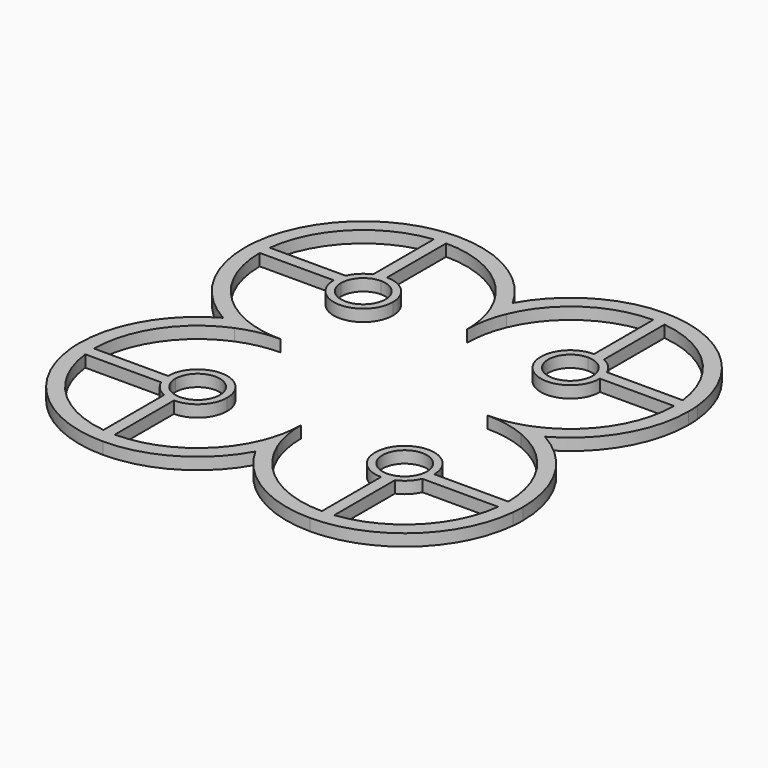
from build123d import *

# Parameters (mm, degrees)
F1_DEPTH = 2


with BuildPart() as f1:
    # F0 (on Top) → F1 (new body)
    with BuildSketch(Plane.XY):
        with BuildLine():
            ThreePointArc((-17.5, 35), (-7.785309692, 32.0559194907), (-1.3392857143, 24.214261968))
            ThreePointArc((-1.3392857143, 24.214261968), (-0.7301527426, 25.7256629508), (0, 27.1824583655))
            ThreePointArc((0, 27.1824583655), (-7.3424699683, 34.7285978436), (-17.5, 37.5))
            Line((-17.5, 37.5), (-17.5, 35))
        make_face()
        with BuildLine():
            ThreePointArc((-35, -17.5), (-32.0559194907, -7.785309692), (-24.214261968, -1.3392857143))
            ThreePointArc((-24.214261968, -1.3392857143), (-25.7256629508, -0.7301527426), (-27.1824583655, 0))
            ThreePointArc((-27.1824583655, 0), (-34.7285978436, -7.3424699683), (-37.5, -17.5))
            Line((-37.5, -17.5), (-35, -17.5))
        make_face()
        with BuildLine():
            ThreePointArc((27.1824583655, 0), (25.7256629508, -0.7301527426), (24.214261968, -1.3392857143))
            ThreePointArc((24.214261968, -1.3392857143), (32.0559194907, -7.785309692), (35, -17.5))
            Line((35, -17.5), (37.5, -17.5))
            ThreePointArc((37.5, -17.5), (34.7285978436, -7.3424699683), (27.1824583655, 0))
        make_face()
        with BuildLine():
            ThreePointArc((0, 27.1824583655), (0.7301527426, 25.7256629508), (1.3392857143, 24.214261968))
            ThreePointArc((1.3392857143, 24.214261968), (7.785309692, 32.0559194907), (17.5, 35))
            Line((17.5, 35), (17.5, 37.5))
            ThreePointArc((17.5, 37.5), (7.3424699683, 34.7285978436), (0, 27.1824583655))
        make_face()
        with BuildLine():
            ThreePointArc((24.214261968, 1.3392857143), (20.9232660165, 0.3380872342), (17.5000000654, 0))
            ThreePointArc((17.5000000654, 0), (20.9232660165, -0.3380872342), (24.214261968, -1.3392857143))
            ThreePointArc((24.214261968, -1.3392857143), (25.7256629508, -0.7301527426), (27.1824583655, 0))
            ThreePointArc((27.1824583655, 0), (25.7256629508, 0.7301527426), (24.214261968, 1.3392857143))
        make_face()
        with BuildLine():
            ThreePointArc((1.3392857143, -24.214261968), (0.3380872278, -20.9232659844), (0, -17.5))
            ThreePointArc((0, -17.5), (-0.3380872278, -20.9232659844), (-1.3392857143, -24.214261968))
            ThreePointArc((-1.3392857143, -24.214261968), (-0.7301527426, -25.7256629508), (0, -27.1824583655))
            ThreePointArc((0, -27.1824583655), (0.7301527426, -25.7256629508), (1.3392857143, -24.214261968))
        make_face()
        with BuildLine():
            ThreePointArc((-24.214261968, -1.3392857143), (-20.9232659844, -0.3380872278), (-17.5, 0))
            ThreePointArc((-17.5, 0), (-20.9232659844, 0.3380872278), (-24.214261968, 1.3392857143))
            ThreePointArc((-24.214261968, 1.3392857143), (-25.7256629508, 0.7301527426), (-27.1824583655, 0))
            ThreePointArc((-27.1824583655, 0), (-25.7256629508, -0.7301527426), (-24.214261968, -1.3392857143))
        make_face()
        with BuildLine():
            ThreePointArc((-1.3392857143, 24.214261968), (-0.3380872278, 20.9232659844), (0, 17.5))
            ThreePointArc((0, 17.5), (0.3380872278, 20.9232659844), (1.3392857143, 24.214261968))
            ThreePointArc((1.3392857143, 24.214261968), (0.7301527426, 25.7256629508), (0, 27.1824583655))
            ThreePointArc((0, 27.1824583655), (-0.7301527426, 25.7256629508), (-1.3392857143, 24.214261968))
        make_face()
        with BuildLine():
            ThreePointArc((-27.1824583655, 0), (-25.7256629508, 0.7301527426), (-24.214261968, 1.3392857143))
            ThreePointArc((-24.214261968, 1.3392857143), (-32.0559194907, 7.785309692), (-35, 17.5))
            Line((-35, 17.5), (-37.5, 17.5))
            ThreePointArc((-37.5, 17.5), (-34.7285978436, 7.3424699683), (-27.1824583655, 0))
        make_face()
        with BuildLine():
            ThreePointArc((-34.8853386507, 19.5), (-29.8743686708, 29.8743686708), (-19.5, 34.8853386507))
            Line((-19.5, 34.8853386507), (-19.5, 36.718895694))
            Line((-19.5, 36.718895694), (-23.0348033662, 36.718895694))
            ThreePointArc((-23.0348033662, 36.718895694), (-32.8574640637, 30.3120372124), (-37.3997487421, 19.5))
            Line((-37.3997487421, 19.5), (-34.8853386507, 19.5))
        make_face()
        with BuildLine():
            ThreePointArc((-35, 17.5), (-34.971311147, 18.501642055), (-34.8853386507, 19.5))
            Line((-34.8853386507, 19.5), (-37.3997487421, 19.5))
            ThreePointArc((-37.3997487421, 19.5), (-37.4749214622, 18.5012555012), (-37.5, 17.5))
            Line((-37.5, 17.5), (-35, 17.5))
        make_face()
        with BuildLine():
            Line((-22.082575695, 19.5), (-34.8853386507, 19.5))
            ThreePointArc((-34.8853386507, 19.5), (-34.971311147, 18.501642055), (-35, 17.5))
            Line((-35, 17.5), (-22.5, 17.5))
            ThreePointArc((-22.5, 17.5), (-22.3945315647, 18.5215482184), (-22.082575695, 19.5))
        make_face()
        with BuildLine():
            Line((-17.5, 21.25), (-17.5, 22.5))
            ThreePointArc((-17.5, 22.5), (-18.5215482184, 22.3945315647), (-19.5, 22.082575695))
            ThreePointArc((-19.5, 22.082575695), (-21.0355339059, 21.0355339059), (-22.082575695, 19.5))
            ThreePointArc((-22.082575695, 19.5), (-22.3945315647, 18.5215482184), (-22.5, 17.5))
            Line((-22.5, 17.5), (-21.25, 17.5))
            ThreePointArc((-21.25, 17.5), (-20.1516504294, 20.1516504294), (-17.5, 21.25))
        make_face()
        with BuildLine():
            Line((-17.5, 22.5), (-17.5, 35))
            ThreePointArc((-17.5, 35), (-18.501642055, 34.971311147), (-19.5, 34.8853386507))
            Line((-19.5, 34.8853386507), (-19.5, 22.082575695))
            ThreePointArc((-19.5, 22.082575695), (-18.5215482184, 22.3945315647), (-17.5, 22.5))
        make_face()
        with BuildLine():
            ThreePointArc((-12.5, 17.5), (-13.9644660941, 21.0355339059), (-17.5, 22.5))
            Line((-17.5, 22.5), (-17.5, 21.25))
            ThreePointArc((-17.5, 21.25), (-14.8483495706, 20.1516504294), (-13.75, 17.5))
            ThreePointArc((-13.75, 17.5), (-17.5, 13.75), (-21.25, 17.5))
            Line((-21.25, 17.5), (-22.5, 17.5))
            ThreePointArc((-22.5, 17.5), (-17.5, 12.5), (-12.5, 17.5))
        make_face()
        with BuildLine():
            ThreePointArc((-19.5, 34.8853386507), (-18.501642055, 34.971311147), (-17.5, 35))
            Line((-17.5, 35), (-17.5, 37.5))
            ThreePointArc((-17.5, 37.5), (-20.2948243343, 37.3037611817), (-23.0348033662, 36.718895694))
            Line((-23.0348033662, 36.718895694), (-19.5, 36.718895694))
            Line((-19.5, 36.718895694), (-19.5, 34.8853386507))
        make_face()
        with BuildLine():
            ThreePointArc((-34.8853386507, -19.5), (-34.971311147, -18.501642055), (-35, -17.5))
            Line((-35, -17.5), (-37.5, -17.5))
            ThreePointArc((-37.5, -17.5), (-37.4749214622, -18.5012555012), (-37.3997487421, -19.5))
            Line((-37.3997487421, -19.5), (-34.8853386507, -19.5))
        make_face()
        with BuildLine():
            Line((-22.5, -17.5), (-35, -17.5))
            ThreePointArc((-35, -17.5), (-34.971311147, -18.501642055), (-34.8853386507, -19.5))
            Line((-34.8853386507, -19.5), (-22.082575695, -19.5))
            ThreePointArc((-22.082575695, -19.5), (-22.3945315647, -18.5215482184), (-22.5, -17.5))
        make_face()
        with BuildLine():
            ThreePointArc((-19.5, -34.8853386507), (-29.8743686708, -29.8743686708), (-34.8853386507, -19.5))
            Line((-34.8853386507, -19.5), (-37.3997487421, -19.5))
            ThreePointArc((-37.3997487421, -19.5), (-30.916407865, -32.3323969742), (-17.5, -37.5))
            Line((-17.5, -37.5), (-17.5, -35))
            ThreePointArc((-17.5, -35), (-18.501642055, -34.971311147), (-19.5, -34.8853386507))
        make_face()
        with BuildLine():
            Line((-21.25, -17.5), (-22.5, -17.5))
            ThreePointArc((-22.5, -17.5), (-22.3945315647, -18.5215482184), (-22.082575695, -19.5))
            ThreePointArc((-22.082575695, -19.5), (-21.0355339059, -21.0355339059), (-19.5, -22.082575695))
            ThreePointArc((-19.5, -22.082575695), (-18.5215482184, -22.3945315647), (-17.5, -22.5))
            Line((-17.5, -22.5), (-17.5, -21.25))
            ThreePointArc((-17.5, -21.25), (-20.1516504294, -20.1516504294), (-21.25, -17.5))
        make_face()
        with BuildLine():
            ThreePointArc((-19.5, -34.8853386507), (-18.501642055, -34.971311147), (-17.5, -35))
            Line((-17.5, -35), (-17.5, -22.5))
            ThreePointArc((-17.5, -22.5), (-18.5215482184, -22.3945315647), (-19.5, -22.082575695))
            Line((-19.5, -22.082575695), (-19.5, -34.8853386507))
        make_face()
        with BuildLine():
            ThreePointArc((-12.5, -17.5), (-17.5, -12.5), (-22.5, -17.5))
            Line((-22.5, -17.5), (-21.25, -17.5))
            ThreePointArc((-21.25, -17.5), (-17.5, -13.75), (-13.75, -17.5))
            ThreePointArc((-13.75, -17.5), (-14.8483495706, -20.1516504294), (-17.5, -21.25))
            Line((-17.5, -21.25), (-17.5, -22.5))
            ThreePointArc((-17.5, -22.5), (-13.9644660941, -21.0355339059), (-12.5, -17.5))
        make_face()
        with BuildLine():
            ThreePointArc((0, -27.1824583655), (-0.7301527426, -25.7256629508), (-1.3392857143, -24.214261968))
            ThreePointArc((-1.3392857143, -24.214261968), (-7.785309692, -32.0559194907), (-17.5, -35))
            Line((-17.5, -35), (-17.5, -37.5))
            ThreePointArc((-17.5, -37.5), (-7.3424699683, -34.7285978436), (0, -27.1824583655))
        make_face()
        with BuildLine():
            ThreePointArc((17.5, -35), (7.785309692, -32.0559194907), (1.3392857143, -24.214261968))
            ThreePointArc((1.3392857143, -24.214261968), (0.7301527426, -25.7256629508), (0, -27.1824583655))
            ThreePointArc((0, -27.1824583655), (7.3424699683, -34.7285978436), (17.5, -37.5))
            Line((17.5, -37.5), (17.5, -35))
        make_face()
        with BuildLine():
            Line((37.3997487421, -19.5), (34.8853386507, -19.5))
            ThreePointArc((34.8853386507, -19.5), (29.8743686708, -29.8743686708), (19.5, -34.8853386507))
            ThreePointArc((19.5, -34.8853386507), (18.501642055, -34.971311147), (17.5, -35))
            Line((17.5, -35), (17.5, -37.5))
            ThreePointArc((17.5, -37.5), (30.916407865, -32.3323969742), (37.3997487421, -19.5))
        make_face()
        with BuildLine():
            Line((37.5, -17.5), (35, -17.5))
            ThreePointArc((35, -17.5), (34.971311147, -18.501642055), (34.8853386507, -19.5))
            Line((34.8853386507, -19.5), (37.3997487421, -19.5))
            ThreePointArc((37.3997487421, -19.5), (37.4749214622, -18.5012555012), (37.5, -17.5))
        make_face()
        with BuildLine():
            ThreePointArc((34.8853386507, -19.5), (34.971311147, -18.501642055), (35, -17.5))
            Line((35, -17.5), (22.5, -17.5))
            ThreePointArc((22.5, -17.5), (22.3945315647, -18.5215482184), (22.082575695, -19.5))
            Line((22.082575695, -19.5), (34.8853386507, -19.5))
        make_face()
        with BuildLine():
            ThreePointArc((17.5, -35), (18.501642055, -34.971311147), (19.5, -34.8853386507))
            Line((19.5, -34.8853386507), (19.5, -22.082575695))
            ThreePointArc((19.5, -22.082575695), (18.5215482184, -22.3945315647), (17.5, -22.5))
            Line((17.5, -22.5), (17.5, -35))
        make_face()
        with BuildLine():
            ThreePointArc((22.082575695, -19.5), (22.3945315647, -18.5215482184), (22.5, -17.5))
            Line((22.5, -17.5), (21.25, -17.5))
            ThreePointArc((21.25, -17.5), (20.1516504294, -20.1516504294), (17.5, -21.25))
            Line((17.5, -21.25), (17.5, -22.5))
            ThreePointArc((17.5, -22.5), (18.5215482184, -22.3945315647), (19.5, -22.082575695))
            ThreePointArc((19.5, -22.082575695), (21.0355339059, -21.0355339059), (22.082575695, -19.5))
        make_face()
        with BuildLine():
            Line((21.25, -17.5), (22.5, -17.5))
            ThreePointArc((22.5, -17.5), (13.9644660941, -13.9644660941), (17.5, -22.5))
            Line((17.5, -22.5), (17.5, -21.25))
            ThreePointArc((17.5, -21.25), (14.8483495706, -14.8483495706), (21.25, -17.5))
        make_face()
        with BuildLine():
            ThreePointArc((19.5, 34.8853386507), (18.501642055, 34.971311147), (17.5, 35))
            Line((17.5, 35), (17.5, 22.5))
            ThreePointArc((17.5, 22.5), (18.5215482184, 22.3945315647), (19.5, 22.082575695))
            Line((19.5, 22.082575695), (19.5, 34.8853386507))
        make_face()
        with BuildLine():
            ThreePointArc((19.5, 22.082575695), (18.5215482184, 22.3945315647), (17.5, 22.5))
            Line((17.5, 22.5), (17.5, 21.25))
            ThreePointArc((17.5, 21.25), (20.1516504294, 20.1516504294), (21.25, 17.5))
            Line((21.25, 17.5), (22.5, 17.5))
            ThreePointArc((22.5, 17.5), (22.3945315647, 18.5215482184), (22.082575695, 19.5))
            ThreePointArc((22.082575695, 19.5), (21.0355339059, 21.0355339059), (19.5, 22.082575695))
        make_face()
        with BuildLine():
            ThreePointArc((35, 17.5), (34.971311147, 18.501642055), (34.8853386507, 19.5))
            Line((34.8853386507, 19.5), (22.082575695, 19.5))
            ThreePointArc((22.082575695, 19.5), (22.3945315647, 18.5215482184), (22.5, 17.5))
            Line((22.5, 17.5), (35, 17.5))
        make_face()
        with BuildLine():
            Line((17.5, 37.5), (17.5, 35))
            ThreePointArc((17.5, 35), (18.501642055, 34.971311147), (19.5, 34.8853386507))
            ThreePointArc((19.5, 34.8853386507), (29.8743686708, 29.8743686708), (34.8853386507, 19.5))
            Line((34.8853386507, 19.5), (37.3997487421, 19.5))
            ThreePointArc((37.3997487421, 19.5), (30.916407865, 32.3323969742), (17.5, 37.5))
        make_face()
        with BuildLine():
            ThreePointArc((37.5, 17.5), (37.4749214622, 18.5012555012), (37.3997487421, 19.5))
            Line((37.3997487421, 19.5), (34.8853386507, 19.5))
            ThreePointArc((34.8853386507, 19.5), (34.971311147, 18.501642055), (35, 17.5))
            Line((35, 17.5), (37.5, 17.5))
        make_face()
        with BuildLine():
            ThreePointArc((35, 17.5), (32.0559194907, 7.785309692), (24.214261968, 1.3392857143))
            ThreePointArc((24.214261968, 1.3392857143), (25.7256629508, 0.7301527426), (27.1824583655, 0))
            ThreePointArc((27.1824583655, 0), (34.7285978436, 7.3424699683), (37.5, 17.5))
            Line((37.5, 17.5), (35, 17.5))
        make_face()
        with BuildLine():
            Line((17.5, 21.25), (17.5, 22.5))
            ThreePointArc((17.5, 22.5), (13.9644660941, 13.9644660941), (22.5, 17.5))
            Line((22.5, 17.5), (21.25, 17.5))
            ThreePointArc((21.25, 17.5), (14.8483495706, 14.8483495706), (17.5, 21.25))
        make_face()
    extrude(amount=F1_DEPTH)


solid = f1.part
